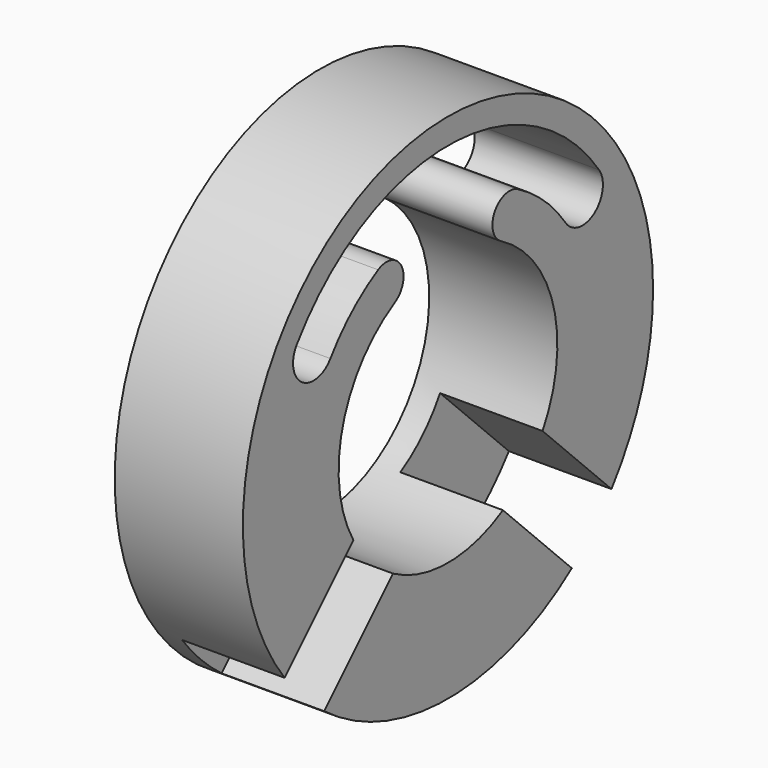
from build123d import *

# Parameters (mm, degrees)
SKETCH087_R             = 8
SKETCH087_R_2           = 4
PAD045_DEPTH            = 7.5
SKETCH088_R             = 6
SKETCH088_R_2           = 4
PAD046_DEPTH            = 7
SKETCH089_R             = 8
SKETCH089_R_2           = 4
PAD047_DEPTH            = 1.5
SKETCH090_R             = 2
PAD048_DEPTH            = 9
BODY031_ROLL_ANGLE      = 45
BODY031_PLACEMENT_ANGLE = 180
SKETCH091_R             = 15
PAD049_DEPTH            = 3.75
POCKET029_DEPTH         = 6
POLARPATTERN021_COUNT   = 2
POLARPATTERN021_ANGLE   = 90


with BuildPart() as polea8d:
    # Sketch087 → Pad045 (new body)
    with BuildSketch(Plane.YZ):
        Circle(SKETCH087_R)
        Circle(SKETCH087_R_2, mode=Mode.SUBTRACT)
    extrude(amount=PAD045_DEPTH)

    # Sketch088 (on Face3 of Pad045) → Pad046 (join)
    with BuildSketch(Plane(origin=(0, 0, 0), x_dir=(0, 1, 0), z_dir=(-1, 0, 0))):
        Circle(SKETCH088_R)
        Circle(SKETCH088_R_2, mode=Mode.SUBTRACT)
    extrude(amount=PAD046_DEPTH)

    # Sketch089 (on Face6 of Pad046) → Pad047 (join)
    with BuildSketch(Plane(origin=(-7, 0, 0), x_dir=(0, 1, 0), z_dir=(-1, 0, 0))):
        Circle(SKETCH089_R)
        Circle(SKETCH089_R_2, mode=Mode.SUBTRACT)
    extrude(amount=PAD047_DEPTH)

    # Sketch090 → Pad048 (join)
    with BuildSketch(Plane.XZ):
        with Locations((4, 0)):
            Circle(SKETCH090_R)
    extrude(amount=PAD048_DEPTH)


with BuildPart() as polea8d_1:
    # Body031 roll: moved
    add(polea8d.part.rotate(Axis((0, 0, 0), (1, 0, 0)), BODY031_ROLL_ANGLE))


with BuildPart() as polea8d_2:
    # Body031 placement: moved
    add(polea8d_1.part.moved(Location((22.5, 0, 0))).rotate(Axis((22.5, 0, 0), (0, 0, 1)), BODY031_PLACEMENT_ANGLE))


with BuildPart() as body034:
    # Sketch091 → Pad049 (new body, symmetric)
    with BuildSketch(Plane.YZ):
        Circle(SKETCH091_R)
        with BuildLine():
            ThreePointArc((-3.891892, 6.989505), (0, -8), (3.891892, 6.989505))
            ThreePointArc((5.108116, 9.17372), (3.407892, 8.689727), (3.891892, 6.989505))
            ThreePointArc((8.601093, 6.022558), (7.033353, 7.796277), (5.108116, 9.17372))
            ThreePointArc((8.601093, 6.022558), (10.690187, 5.654187), (11.058552, 7.743282))
            ThreePointArc((11.058552, 7.743282), (0, 13.5), (-11.058553, 7.743282))
            ThreePointArc((-11.058553, 7.743282), (-10.690189, 5.654189), (-8.601096, 6.022553))
            ThreePointArc((-5.108108, 9.173725), (-7.033352, 7.796278), (-8.601096, 6.022553))
            ThreePointArc((-3.891892, 6.989505), (-3.40789, 8.689723), (-5.108108, 9.173725))
        make_face(mode=Mode.SUBTRACT)
    extrude(amount=PAD049_DEPTH, both=True)


with BuildPart() as body034_1:
    # Body032 placement: moved
    add(body034.part.moved(Location((18.5, 0, 0))))

    # Cut005: cut polea8d
    add(polea8d_2.part, mode=Mode.SUBTRACT)

    # Sketch092 (on Face3 of BaseFeature005) → Pocket029 (cut)
    with BuildSketch(Plane.YZ.offset(22.25)):
        Polygon((4.018406, -6.917544), (9.86414, -12.763277), (12.763277, -9.86414), (6.917544, -4.018406), align=None)
    pocket029 = extrude(amount=-POCKET029_DEPTH, mode=Mode.SUBTRACT)

    # PolarPattern021: Pocket029 ×2 about axis
    polarpattern021_axis = Axis((22.25, 0, 0), (-1, 0, 0))
    for i in range(1, POLARPATTERN021_COUNT):
        add(pocket029.rotate(polarpattern021_axis, i * POLARPATTERN021_ANGLE / (POLARPATTERN021_COUNT - 1)), mode=Mode.SUBTRACT)


solid = body034_1.part
